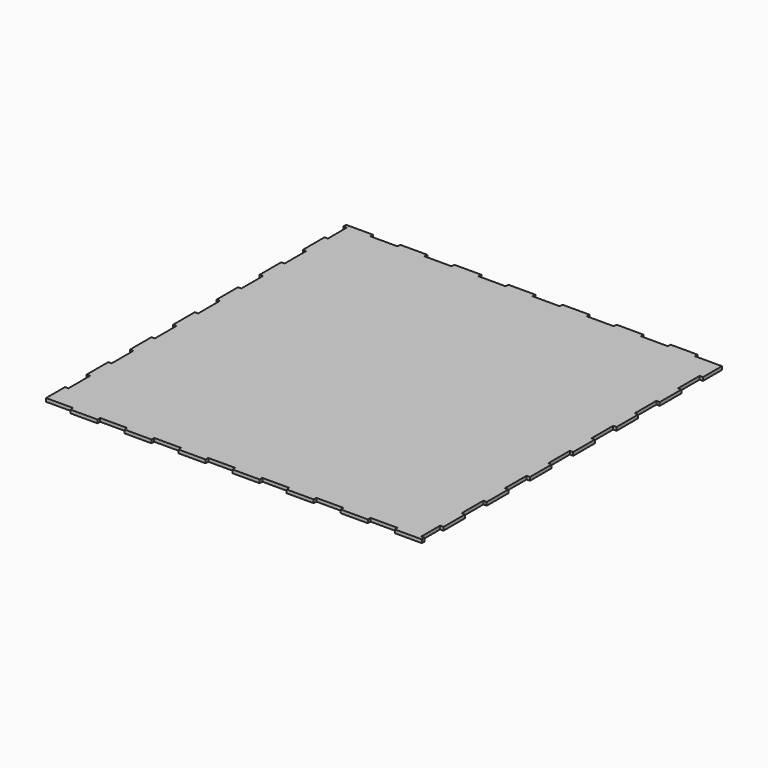
from build123d import *

# Parameters (mm, degrees)
F1_DEPTH = 3.175


with BuildPart() as f1:
    # F0 (on Top) → F1 (new body)
    with BuildSketch(Plane.XY):
        Polygon((-152.4, 177.8), (-177.8, 177.8), (-177.8, 174.625), (-174.625, 174.625), (-174.625, 152.4), (-177.8, 152.4), (-177.8, 127), (-174.625, 127), (-174.625, 101.6), (-177.8, 101.6), (-177.8, 76.2), (-174.625, 76.2), (-174.625, 50.8), (-177.8, 50.8), (-177.8, 25.4), (-174.625, 25.4), (-174.625, 0), (-177.8, 0), (-177.8, -25.4), (-174.625, -25.4), (-174.625, -50.8), (-177.8, -50.8), (-177.8, -76.2), (-174.625, -76.2), (-174.625, -101.6), (-177.8, -101.6), (-177.8, -127), (-174.625, -127), (-174.625, -152.4), (-177.8, -152.4), (-177.8, -174.625), (-174.625, -174.625), (-152.4, -174.625), (-152.4, -177.8), (-127, -177.8), (-127, -174.625), (-101.6, -174.625), (-101.6, -177.8), (-76.2, -177.8), (-76.2, -174.625), (-50.8, -174.625), (-50.8, -177.8), (-25.4, -177.8), (-25.4, -174.625), (0, -174.625), (0, -177.8), (25.4, -177.8), (25.4, -174.625), (50.8, -174.625), (50.8, -177.8), (76.2, -177.8), (76.2, -174.625), (101.6, -174.625), (101.6, -177.8), (127, -177.8), (127, -174.625), (152.4, -174.625), (152.4, -177.8), (177.8, -177.8), (177.8, -174.625), (174.625, -174.625), (174.625, -152.4), (177.8, -152.4), (177.8, -127), (174.625, -127), (174.625, -101.6), (177.8, -101.6), (177.8, -76.2), (174.625, -76.2), (174.625, -50.8), (177.8, -50.8), (177.8, -25.4), (174.625, -25.4), (174.625, 0), (177.8, 0), (177.8, 25.4), (174.625, 25.4), (174.625, 50.8), (177.8, 50.8), (177.8, 76.2), (174.625, 76.2), (174.625, 101.6), (177.8, 101.6), (177.8, 127), (174.625, 127), (174.625, 152.4), (177.8, 152.4), (177.8, 174.625), (174.625, 174.625), (152.4, 174.625), (152.4, 177.8), (127, 177.8), (127, 174.625), (101.6, 174.625), (101.6, 177.8), (76.2, 177.8), (76.2, 174.625), (50.8, 174.625), (50.8, 177.8), (25.4, 177.8), (25.4, 174.625), (0, 174.625), (0, 177.8), (-25.4, 177.8), (-25.4, 174.625), (-50.8, 174.625), (-50.8, 177.8), (-76.2, 177.8), (-76.2, 174.625), (-101.6, 174.625), (-101.6, 177.8), (-127, 177.8), (-127, 174.625), (-152.4, 174.625), align=None)
    extrude(amount=F1_DEPTH)


solid = f1.part
